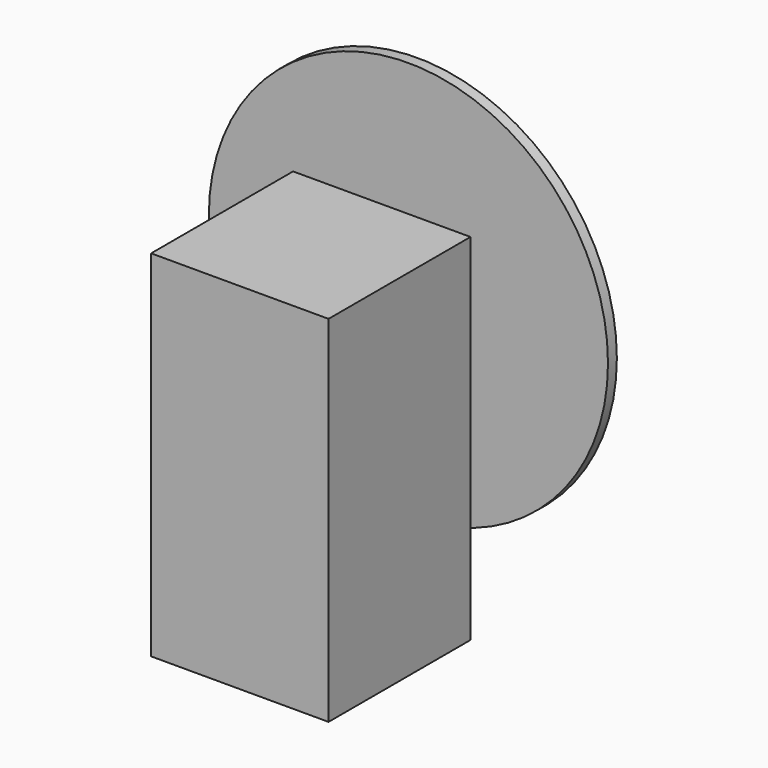
from build123d import *

# Parameters (mm, degrees)
F0_W     = 101.6
F0_H     = 203.2
F1_DEPTH = 101.6
F2_R     = 25.4
F3_DEPTH = 25.4
F4_R     = 114.3
F4_R_2   = 25.4
F5_DEPTH = 6.35


with BuildPart() as f1:
    # F0 (on Right) → F1 (new body)
    with BuildSketch(Plane.YZ):
        with Locations((-50.8, -17.940154)):
            Rectangle(F0_W, F0_H)
    extrude(amount=F1_DEPTH)

    # F2 (on face) → F3 (join)
    with BuildSketch(Plane(origin=(0, 0, 0), x_dir=(-1, 0, 0), z_dir=(0, 1, 0))):
        with Locations((-50.8, 32.859846)):
            Circle(F2_R)
    extrude(amount=F3_DEPTH)


with BuildPart() as f5:
    # F4 (on face) → F5 (new body)
    with BuildSketch(Plane(origin=(0, 25.4, 0), x_dir=(-1, 0, 0), z_dir=(0, 1, 0))):
        with Locations((-50.8, 32.859846)):
            Circle(F4_R)
        with Locations((-50.8, 32.859846)):
            Circle(F4_R_2, mode=Mode.SUBTRACT)
    extrude(amount=-F5_DEPTH)


solid = Compound([f1.part, f5.part])
